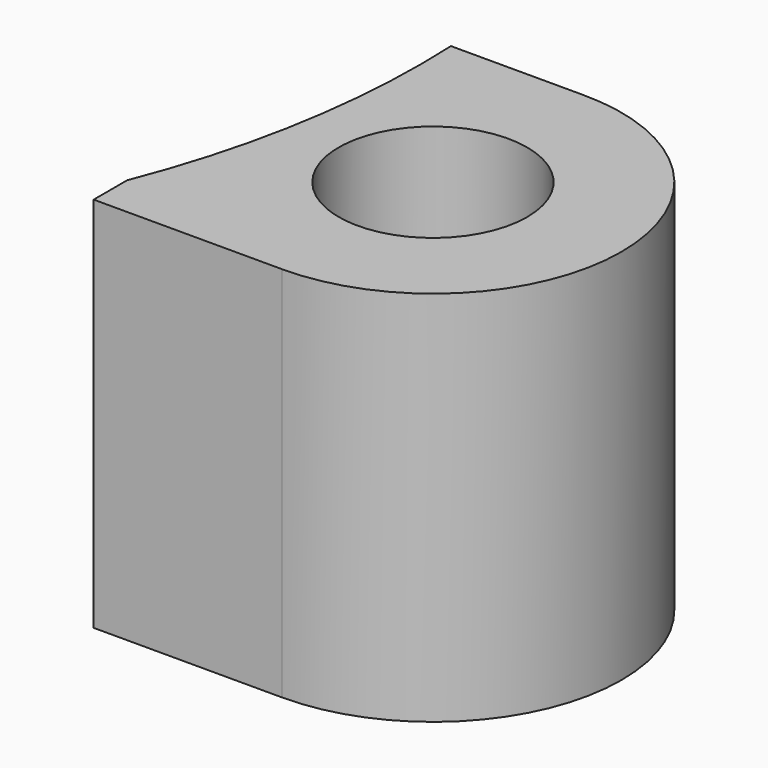
from build123d import *

# Parameters (mm, degrees)
CYLINDER416_R     = 2.5
CYLINDER416_DEPTH = 10
CYLINDER418_R     = 21.5
CYLINDER418_DEPTH = 63
BOX001_W          = 5
BOX001_H          = 10
BOX001_DEPTH      = 10
CYLINDER417_R     = 5
CYLINDER417_DEPTH = 10


with BuildPart() as cylinder416:
    # Cylinder416 → Cylinder416 (new body)
    with BuildSketch(Plane(origin=(25, -4, 0), x_dir=(1, 0, 0), z_dir=(0, 0, 1))):
        Circle(CYLINDER416_R)
    extrude(amount=CYLINDER416_DEPTH)


with BuildPart() as fusion093:
    # Cylinder418 → Cylinder418 (new body)
    with BuildSketch(Plane.XY):
        Circle(CYLINDER418_R)
    extrude(amount=CYLINDER418_DEPTH)

    # Fusion093: union Cylinder416
    add(cylinder416.part)


with BuildPart() as cube001:
    # Box001 → Box001 (new body)
    with BuildSketch(Plane(origin=(20, -9, 0), x_dir=(1, 0, 0), z_dir=(0, 0, 1))):
        with Locations((2.5, 5)):
            Rectangle(BOX001_W, BOX001_H)
    extrude(amount=BOX001_DEPTH)


with BuildPart() as slider:
    # Cylinder417 → Cylinder417 (new body)
    with BuildSketch(Plane(origin=(25, -4, 0), x_dir=(1, 0, 0), z_dir=(0, 0, 1))):
        Circle(CYLINDER417_R)
    extrude(amount=CYLINDER417_DEPTH)

    # Fusion092: union Cube001
    add(cube001.part)

    # Cut236: cut Fusion093
    add(fusion093.part, mode=Mode.SUBTRACT)


with BuildPart() as slider_1:
    # Cut236 placement: moved
    add(slider.part.moved(Location((0, 0, 22))))


solid = slider_1.part
